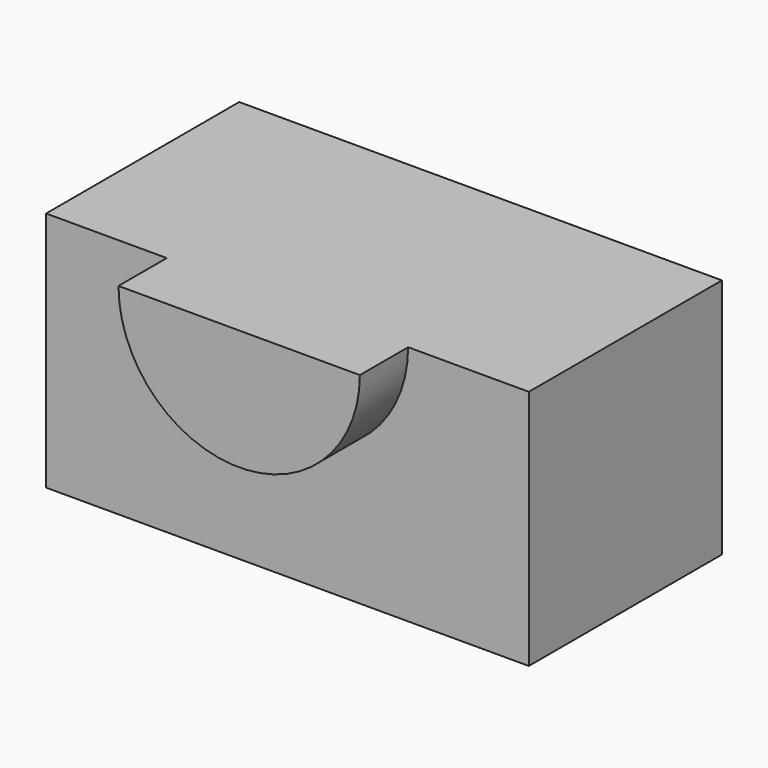
from build123d import *

# Parameters (mm, degrees)
F0_W     = 2032
F0_H     = 1016
F1_DEPTH = 1016
F3_DEPTH = 254
F5_DEPTH = 1016


with BuildPart() as f1:
    # F0 (on Top) → F1 (new body)
    with BuildSketch(Plane.XY):
        with Locations((-455.675927, 199.958904)):
            Rectangle(F0_W, F0_H)
    extrude(amount=F1_DEPTH)

    # F2 (on face) → F3 (join)
    with BuildSketch(Plane.XZ.offset(308.041096)):
        with BuildLine():
            Line((-709.675927, 1016), (-963.675927, 1016))
            ThreePointArc((-963.675927, 1016), (-455.675927, 508.736016), (52.324073, 1016))
            Line((52.324073, 1016), (-201.675927, 1016))
            ThreePointArc((-201.675927, 1016), (-455.675927, 763.618704), (-709.675927, 1016))
        make_face()
        with BuildLine():
            Line((-201.675927, 1016), (-709.675927, 1016))
            ThreePointArc((-709.675927, 1016), (-455.675927, 763.618704), (-201.675927, 1016))
        make_face()
    extrude(amount=F3_DEPTH)

    # F4 (on face) → F5 (join)
    with BuildSketch(Plane.XZ.offset(562.041096)):
        with BuildLine():
            Line((-201.675927, 1016), (-709.675927, 1016))
            ThreePointArc((-709.675927, 1016), (-455.675927, 763.326984), (-201.675927, 1016))
        make_face()
    extrude(amount=-F5_DEPTH)


solid = f1.part
